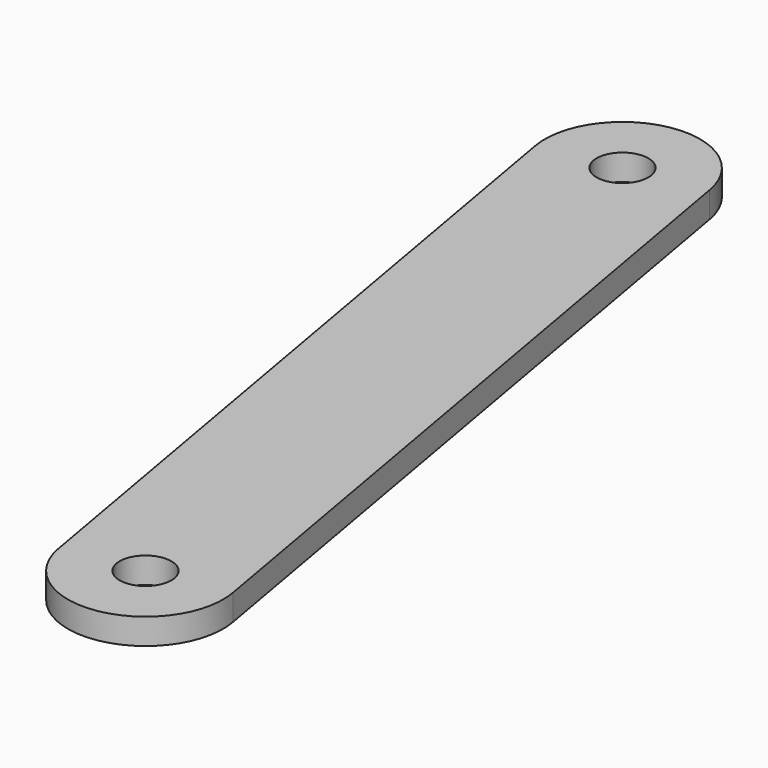
from build123d import *

# Parameters (mm, degrees)
SKETCH_R  = 1
PAD_DEPTH = 1


with BuildPart() as part:
    # Sketch → Pad (new body)
    with BuildSketch(Plane.XY):
        with BuildLine():
            ThreePointArc((2.954423, 0.520945), (-0.520945, 2.954423), (-2.954423, -0.520945))
            Line((-2.954423, -0.520945), (2.255022, -30.065177))
            ThreePointArc((2.255022, -30.065177), (5.73039, -32.498656), (8.163869, -29.023288))
            Line((2.954423, 0.520945), (8.163869, -29.023288))
        make_face()
        Circle(SKETCH_R, mode=Mode.SUBTRACT)
        with Locations((5.209445, -29.544233)):
            Circle(SKETCH_R, mode=Mode.SUBTRACT)
    extrude(amount=PAD_DEPTH)


solid = part.part
